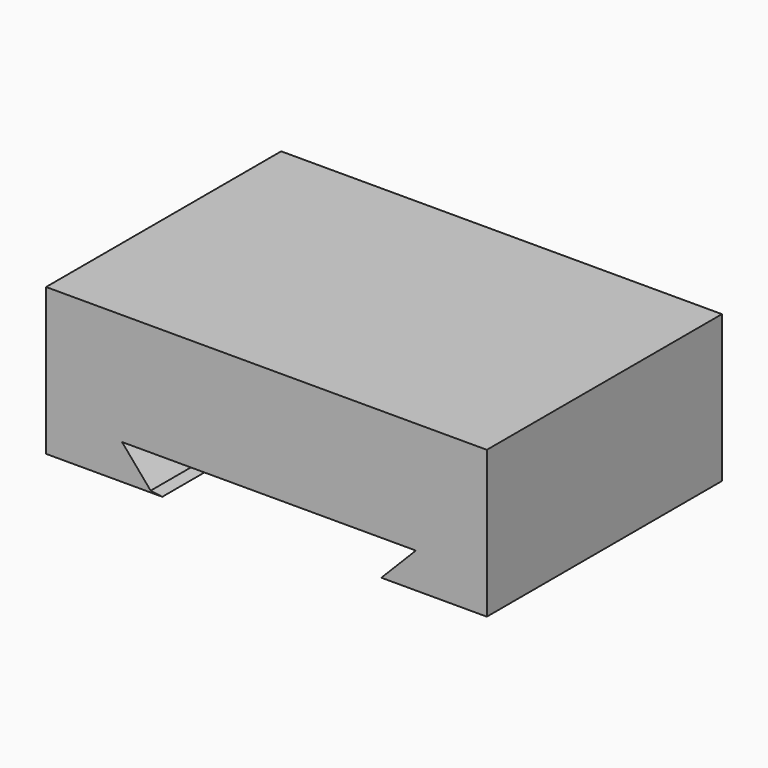
from build123d import *

# Parameters (mm, degrees)
F0_W     = 152.4
F0_H     = 50.8
F1_DEPTH = 25.4
F4_DEPTH = 25.4
F5_DEPTH = 76.2


with BuildPart() as f1:
    # F0 (on Front) → F1 (new body)
    with BuildSketch(Plane.XZ):
        with Locations((1.1145584285, -51.1352052836)):
            Rectangle(F0_W, F0_H)
    extrude(amount=F1_DEPTH)

    # F3 (on face) → F4 (cut)
    with BuildSketch(Plane.XZ.offset(25.4)):
        Polygon((52.7703917205, -64.3824934959), (-48.8296082795, -64.3824934959), (-38.9320172776, -75.971078067), (-3.4057565499, -80.9468403459), (37.3732924352, -80.0572519513), (41.6376553476, -75.7159888744), align=None)
    extrude(amount=-F4_DEPTH, mode=Mode.SUBTRACT)

    # F5 (add): a face of the model
    f5_faces = [f1.faces().sort_by_distance(p)[0] for p in [
        (1.0289602376, 0, -47.9835586604),
    ]]
    extrude(f5_faces, amount=F5_DEPTH)


solid = f1.part
